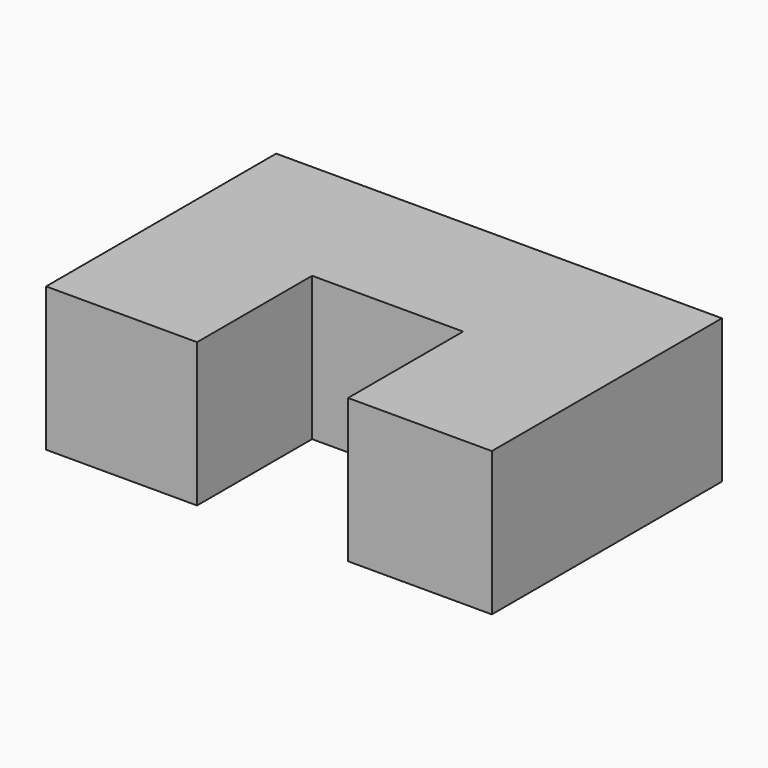
from build123d import *

# Parameters (mm, degrees)
F0_W     = 10
F0_H     = 10
F0_W_2   = 11
F1_DEPTH = 20
F2_W     = 10.5
F2_H     = 10
F3_DEPTH = 10
F4_DEPTH = 20


with BuildPart() as f1:
    # F0 (on Front) → F1 (new body)
    with BuildSketch(Plane.XZ):
        with Locations((-24.396219, 5.872731)):
            Rectangle(F0_W, F0_H)
        with Locations((-13.896219, 5.872731)):
            Rectangle(F0_W_2, F0_H)
    extrude(amount=F1_DEPTH)

    # F2 (on face) → F3 (cut)
    with BuildSketch(Plane.XZ.offset(20)):
        with Locations((-13.646219, 5.872731)):
            Rectangle(F2_W, F2_H)
    extrude(amount=-F3_DEPTH, mode=Mode.SUBTRACT)

    # F0 (on Front) → F4 (join)
    with BuildSketch(Plane.XZ):
        with Locations((-3.396219, 5.872731)):
            Rectangle(F0_W, F0_H)
    extrude(amount=F4_DEPTH)


solid = f1.part
